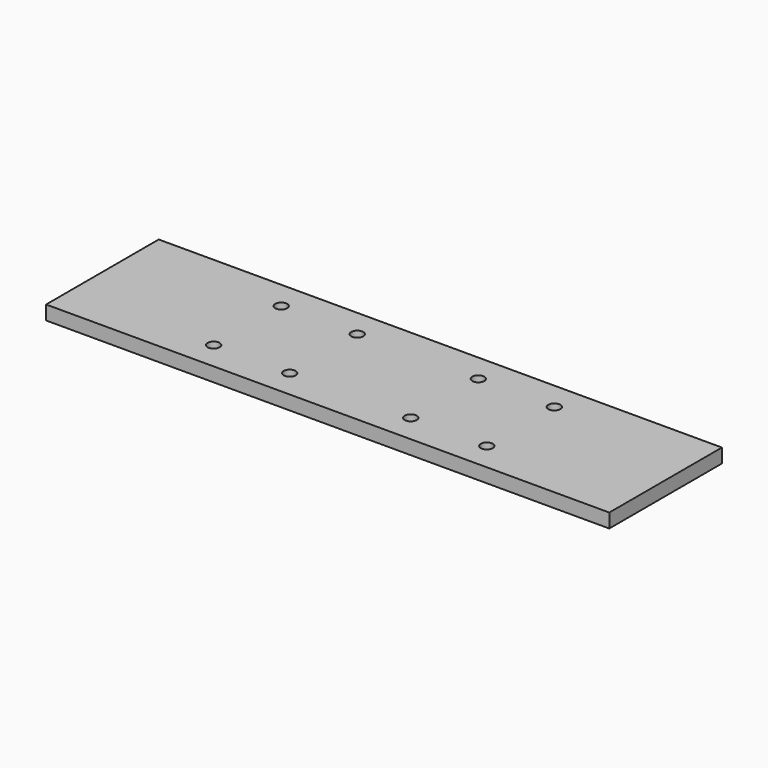
from build123d import *

# Parameters (mm, degrees)
F0_W     = 400
F0_H     = 100
F0_R     = 4.25
F1_DEPTH = 10


with BuildPart() as f1:
    # F0 (on Top) → F1 (new body)
    with BuildSketch(Plane.XY):
        with Locations((97, -30)):
            Rectangle(F0_W, F0_H)
        with Locations((0, -60)):
            Circle(F0_R, mode=Mode.SUBTRACT)
        with Locations((54, -60)):
            Circle(F0_R, mode=Mode.SUBTRACT)
        with Locations((140, -60)):
            Circle(F0_R, mode=Mode.SUBTRACT)
        with Locations((194, -60)):
            Circle(F0_R, mode=Mode.SUBTRACT)
        Circle(F0_R, mode=Mode.SUBTRACT)
        with Locations((54, 0)):
            Circle(F0_R, mode=Mode.SUBTRACT)
        with Locations((140, 0)):
            Circle(F0_R, mode=Mode.SUBTRACT)
        with Locations((194, 0)):
            Circle(F0_R, mode=Mode.SUBTRACT)
    extrude(amount=F1_DEPTH)


solid = f1.part
